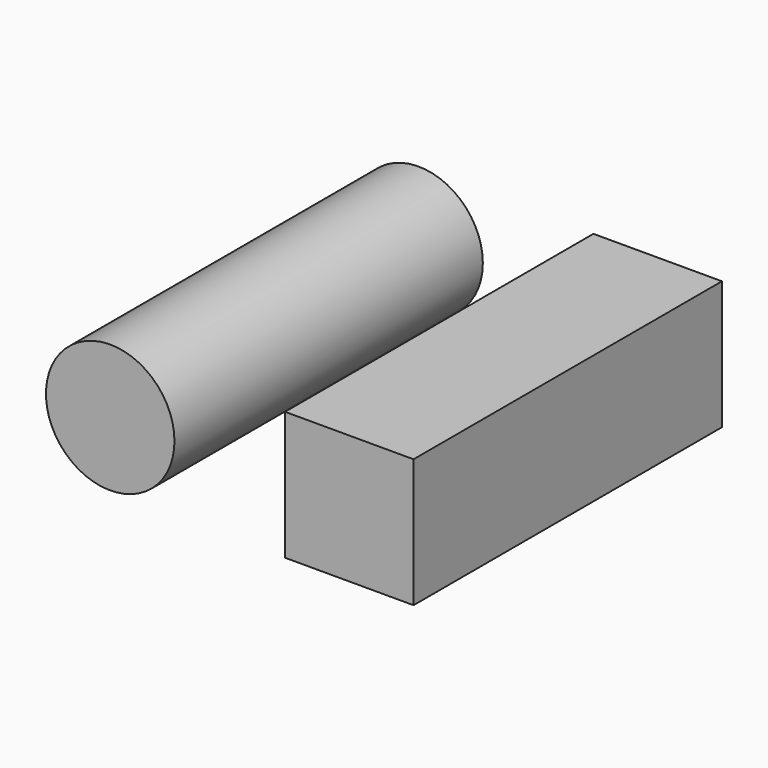
from build123d import *

# Parameters (mm, degrees)
F0_R     = 12.7
F0_W     = 25.4
F0_H     = 25.4
F1_DEPTH = 76.2


with BuildPart() as f1:
    # F0 (on Front) → F1 (new body)
    with BuildSketch(Plane.XZ):
        with Locations((-68.934627, 39.909523)):
            Circle(F0_R)
        with Locations((-21.671838, 39.433652)):
            Rectangle(F0_W, F0_H)
    extrude(amount=F1_DEPTH)


solid = f1.part
